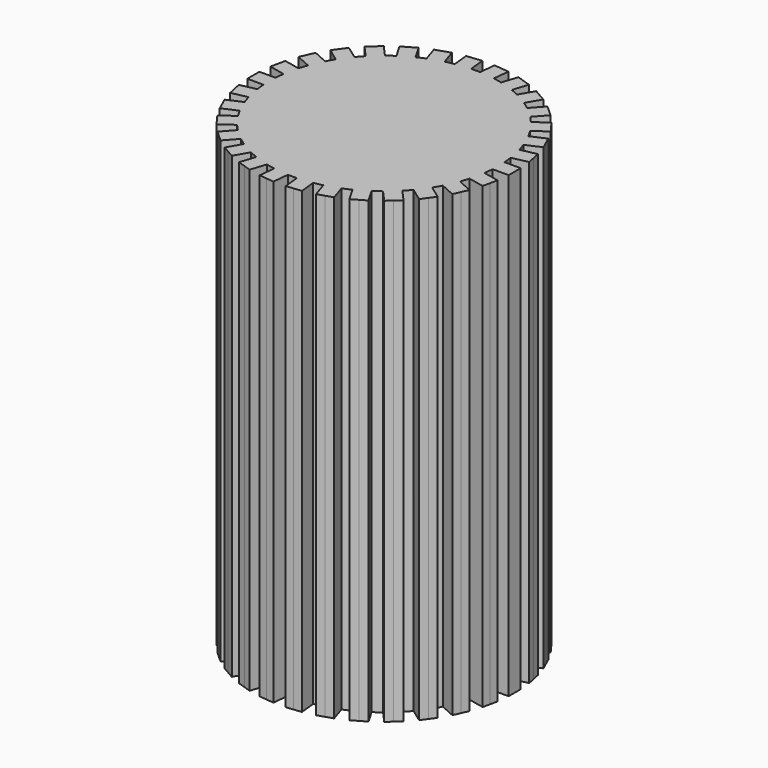
from build123d import *

# Parameters (mm, degrees)
F1_DEPTH = 15.24
F2_R     = 3.2418849927
F3_DEPTH = 2.54
F4_DEPTH = 5.08


with BuildPart() as f1:
    # F0 (on Top) → F1 (new body)
    with BuildSketch(Plane.XY):
        with BuildLine():
            Line((-5.7853078669, -0.3385389282), (-5.0687070732, -0.3385389282))
            ThreePointArc((-5.0687070732, -0.3385389282), (-5.0517206407, -0.5352742924), (-5.0271010834, -0.7312008597))
            Line((-5.0271010834, -0.7312008597), (-5.7274897797, -0.8800730728))
            Line((-5.7274897797, -0.8800730728), (-5.6588850095, -1.2028331405))
            Line((-5.6588850095, -1.2028331405), (-5.5884988085, -1.5339741809))
            Line((-5.5884988085, -1.5339741809), (-4.8875574615, -1.3849844982))
            ThreePointArc((-4.8875574615, -1.3849844982), (-4.8300386411, -1.5738890448), (-4.7652216563, -1.7604154527))
            Line((-4.7652216563, -1.7604154527), (-5.4193529056, -2.0516534489))
            Line((-5.4193529056, -2.0516534489), (-5.2851417228, -2.3530967009))
            Line((-5.2851417228, -2.3530967009), (-5.1474455356, -2.662367401))
            Line((-5.1474455356, -2.662367401), (-4.4927981357, -2.3708995998))
            ThreePointArc((-4.4927981357, -2.3708995998), (-4.3972607758, -2.5437172935), (-4.2950791768, -2.7126914431))
            Line((-4.2950791768, -2.7126914431), (-4.8743643046, -3.1335667243))
            Line((-4.8743643046, -3.1335667243), (-4.680412382, -3.4005186441))
            Line((-4.680412382, -3.4005186441), (-4.4814241927, -3.6744023903))
            Line((-4.4814241927, -3.6744023903), (-3.9016819724, -3.253195012))
            ThreePointArc((-3.9016819724, -3.253195012), (-3.7723015142, -3.4023728905), (-3.6372211271, -3.5464098004))
            Line((-3.6372211271, -3.5464098004), (-4.1163425937, -4.0785280974))
            Line((-4.1163425937, -4.0785280974), (-3.8711265609, -4.2993216051))
            Line((-3.8711265609, -4.2993216051), (-3.6195431082, -4.5258483633))
            Line((-3.6195431082, -4.5258483633), (-3.1400435847, -3.9933101916))
            ThreePointArc((-3.1400435847, -3.9933101916), (-2.9824745749, -4.1123284657), (-2.8203990609, -4.2251330319))
            Line((-2.8203990609, -4.2251330319), (-3.1784169591, -4.8452382216))
            Line((-3.1784169591, -4.8452382216), (-2.8926539334, -5.0102235814))
            Line((-2.8926539334, -5.0102235814), (-2.5994706214, -5.1794930455))
            Line((-2.5994706214, -5.1794930455), (-2.2411702246, -4.5588985538))
            ThreePointArc((-2.2411702246, -4.5588985538), (-2.0622991852, -4.6425555539), (-1.8803120219, -4.7191976755))
            Line((-1.8803120219, -4.7191976755), (-2.1015792516, -5.4001881856))
            Line((-2.1015792516, -5.4001881856), (-1.7877584486, -5.5021547456))
            Line((-1.7877584486, -5.5021547456), (-1.4657887949, -5.6067690276))
            Line((-1.4657887949, -5.6067690276), (-1.2443469715, -4.9252411732))
            ThreePointArc((-1.2443469715, -4.9252411732), (-1.0519914251, -4.9698806869), (-0.8580463249, -5.0070107354))
            Line((-0.8580463249, -5.0070107354), (-0.9328924463, -5.7191240128))
            Line((-0.9328924463, -5.7191240128), (-0.6047293409, -5.753615345))
            Line((-0.6047293409, -5.753615345), (-0.2680449643, -5.789002299))
            Line((-0.2680449643, -5.789002299), (-0.1931397846, -5.0763271194))
            ThreePointArc((-0.1931397846, -5.0763271194), (0.0042934083, -5.0799981857), (0.201720114, -5.0759933999))
            Line((0.201720114, -5.0759933999), (0.2765662354, -5.7881066773))
            Line((0.2765662354, -5.7881066773), (0.6047293409, -5.753615345))
            Line((0.6047293409, -5.753615345), (0.9414137174, -5.7182283911))
            Line((0.9414137174, -5.7182283911), (0.8665085376, -5.0055532116))
            ThreePointArc((0.8665085376, -5.0055532116), (1.0603905992, -4.9680953873), (1.2526704158, -4.9231307955))
            Line((1.2526704158, -4.9231307955), (1.4739376455, -5.6041213055))
            Line((1.4739376455, -5.6041213055), (1.7877584486, -5.5021547456))
            Line((1.7877584486, -5.5021547456), (2.1097281022, -5.3975404635))
            Line((2.1097281022, -5.3975404635), (1.8882862788, -4.7160126091))
            ThreePointArc((1.8882862788, -4.7160126091), (2.0701436326, -4.6390629809), (2.2488730096, -4.5551037515))
            Line((2.2488730096, -4.5551037515), (2.6068909078, -5.1752089412))
            Line((2.6068909078, -5.1752089412), (2.8926539334, -5.0102235814))
            Line((2.8926539334, -5.0102235814), (3.1858372454, -4.8409541173))
            Line((3.1858372454, -4.8409541173), (2.8275368486, -4.2203596257))
            ThreePointArc((2.8275368486, -4.2203596257), (2.9894214555, -4.1072812615), (3.1467890615, -3.9879968158))
            Line((3.1467890615, -3.9879968158), (3.6259105281, -4.5201151127))
            Line((3.6259105281, -4.5201151127), (3.8711265609, -4.2993216051))
            Line((3.8711265609, -4.2993216051), (4.1227100136, -4.0727948468))
            Line((4.1227100136, -4.0727948468), (3.6432104901, -3.540256675))
            ThreePointArc((3.6432104901, -3.540256675), (3.7780472161, -3.3959916421), (3.9071753314, -3.2465952826))
            Line((3.9071753314, -3.2465952826), (4.4864604593, -3.6674705639))
            Line((4.4864604593, -3.6674705639), (4.680412382, -3.4005186441))
            Line((4.680412382, -3.4005186441), (4.8794005713, -3.126634898))
            Line((4.8794005713, -3.126634898), (4.2996583511, -2.7054275197))
            ThreePointArc((4.2996583511, -2.7054275197), (4.4015541842, -2.5362808922), (4.4967992907, -2.3633019568))
            Line((4.4967992907, -2.3633019568), (5.15093054, -2.654539953))
            Line((5.15093054, -2.654539953), (5.2851417228, -2.3530967009))
            Line((5.2851417228, -2.3530967009), (5.42283791, -2.0438260008))
            Line((5.42283791, -2.0438260008), (4.7681905101, -1.7523581996))
            ThreePointArc((4.7681905101, -1.7523581996), (4.8326921134, -1.5657224968), (4.8898915429, -1.376720995))
            Line((4.8898915429, -1.376720995), (5.5902802393, -1.5255932082))
            Line((5.5902802393, -1.5255932082), (5.6588850095, -1.2028331405))
            Line((5.6588850095, -1.2028331405), (5.7292712104, -0.8716921001))
            Line((5.7292712104, -0.8716921001), (5.0283298635, -0.7227024175))
            ThreePointArc((5.0283298635, -0.7227024175), (5.0526182075, -0.5267345152), (5.0692720704, -0.3299707196))
            Line((5.0692720704, -0.3299707196), (5.7853078669, -0.3299707196))
            Line((5.7853078669, -0.3299707196), (5.7853078669, 0))
            Line((5.7853078669, 0), (5.7853078669, 0.3385389282))
            Line((5.7853078669, 0.3385389282), (5.0687070732, 0.3385389282))
            ThreePointArc((5.0687070732, 0.3385389282), (5.0517206407, 0.5352742924), (5.0271010834, 0.7312008597))
            Line((5.0271010834, 0.7312008597), (5.7274897797, 0.8800730728))
            Line((5.7274897797, 0.8800730728), (5.6588850095, 1.2028331405))
            Line((5.6588850095, 1.2028331405), (5.5884988085, 1.5339741809))
            Line((5.5884988085, 1.5339741809), (4.8875574615, 1.3849844982))
            ThreePointArc((4.8875574615, 1.3849844982), (4.8300386411, 1.5738890448), (4.7652216563, 1.7604154527))
            Line((4.7652216563, 1.7604154527), (5.4193529056, 2.0516534489))
            Line((5.4193529056, 2.0516534489), (5.2851417228, 2.3530967009))
            Line((5.2851417228, 2.3530967009), (5.1474455356, 2.662367401))
            Line((5.1474455356, 2.662367401), (4.4927981357, 2.3708995998))
            ThreePointArc((4.4927981357, 2.3708995998), (4.3972607758, 2.5437172935), (4.2950791768, 2.7126914431))
            Line((4.2950791768, 2.7126914431), (4.8743643046, 3.1335667243))
            Line((4.8743643046, 3.1335667243), (4.680412382, 3.4005186441))
            Line((4.680412382, 3.4005186441), (4.4814241927, 3.6744023903))
            Line((4.4814241927, 3.6744023903), (3.9016819724, 3.253195012))
            ThreePointArc((3.9016819724, 3.253195012), (3.7723015142, 3.4023728905), (3.6372211271, 3.5464098004))
            Line((3.6372211271, 3.5464098004), (4.1163425937, 4.0785280974))
            Line((4.1163425937, 4.0785280974), (3.8711265609, 4.2993216051))
            Line((3.8711265609, 4.2993216051), (3.6195431082, 4.5258483633))
            Line((3.6195431082, 4.5258483633), (3.1400435847, 3.9933101916))
            ThreePointArc((3.1400435847, 3.9933101916), (2.9824745749, 4.1123284657), (2.8203990609, 4.2251330319))
            Line((2.8203990609, 4.2251330319), (3.1784169591, 4.8452382216))
            Line((3.1784169591, 4.8452382216), (2.8926539334, 5.0102235814))
            Line((2.8926539334, 5.0102235814), (2.5994706214, 5.1794930455))
            Line((2.5994706214, 5.1794930455), (2.2411702246, 4.5588985538))
            ThreePointArc((2.2411702246, 4.5588985538), (2.0622991852, 4.6425555539), (1.8803120219, 4.7191976755))
            Line((1.8803120219, 4.7191976755), (2.1015792516, 5.4001881856))
            Line((2.1015792516, 5.4001881856), (1.7877584486, 5.5021547456))
            Line((1.7877584486, 5.5021547456), (1.4657887949, 5.6067690276))
            Line((1.4657887949, 5.6067690276), (1.2443469715, 4.9252411732))
            ThreePointArc((1.2443469715, 4.9252411732), (1.0519914251, 4.9698806869), (0.8580463249, 5.0070107354))
            Line((0.8580463249, 5.0070107354), (0.9328924463, 5.7191240128))
            Line((0.9328924463, 5.7191240128), (0.6047293409, 5.753615345))
            Line((0.6047293409, 5.753615345), (0.2680449643, 5.789002299))
            Line((0.2680449643, 5.789002299), (0.1931397846, 5.0763271194))
            ThreePointArc((0.1931397846, 5.0763271194), (-0.0042934083, 5.0799981857), (-0.201720114, 5.0759933999))
            Line((-0.201720114, 5.0759933999), (-0.2765662354, 5.7881066773))
            Line((-0.2765662354, 5.7881066773), (-0.6047293409, 5.753615345))
            Line((-0.6047293409, 5.753615345), (-0.9414137174, 5.7182283911))
            Line((-0.9414137174, 5.7182283911), (-0.8665085376, 5.0055532116))
            ThreePointArc((-0.8665085376, 5.0055532116), (-1.0603905992, 4.9680953873), (-1.2526704158, 4.9231307955))
            Line((-1.2526704158, 4.9231307955), (-1.4739376455, 5.6041213055))
            Line((-1.4739376455, 5.6041213055), (-1.7877584486, 5.5021547456))
            Line((-1.7877584486, 5.5021547456), (-2.1097281022, 5.3975404635))
            Line((-2.1097281022, 5.3975404635), (-1.8882862788, 4.7160126091))
            ThreePointArc((-1.8882862788, 4.7160126091), (-2.0701436326, 4.6390629809), (-2.2488730096, 4.5551037515))
            Line((-2.2488730096, 4.5551037515), (-2.6068909078, 5.1752089412))
            Line((-2.6068909078, 5.1752089412), (-2.8926539334, 5.0102235814))
            Line((-2.8926539334, 5.0102235814), (-3.1858372454, 4.8409541173))
            Line((-3.1858372454, 4.8409541173), (-2.8275368486, 4.2203596257))
            ThreePointArc((-2.8275368486, 4.2203596257), (-2.9894214555, 4.1072812615), (-3.1467890615, 3.9879968158))
            Line((-3.1467890615, 3.9879968158), (-3.6259105281, 4.5201151127))
            Line((-3.6259105281, 4.5201151127), (-3.8711265609, 4.2993216051))
            Line((-3.8711265609, 4.2993216051), (-4.1227100136, 4.0727948468))
            Line((-4.1227100136, 4.0727948468), (-3.6432104901, 3.540256675))
            ThreePointArc((-3.6432104901, 3.540256675), (-3.7780472161, 3.3959916421), (-3.9071753314, 3.2465952826))
            Line((-3.9071753314, 3.2465952826), (-4.4864604593, 3.6674705639))
            Line((-4.4864604593, 3.6674705639), (-4.680412382, 3.4005186441))
            Line((-4.680412382, 3.4005186441), (-4.8794005713, 3.126634898))
            Line((-4.8794005713, 3.126634898), (-4.2996583511, 2.7054275197))
            ThreePointArc((-4.2996583511, 2.7054275197), (-4.4015541842, 2.5362808922), (-4.4967992907, 2.3633019568))
            Line((-4.4967992907, 2.3633019568), (-5.15093054, 2.654539953))
            Line((-5.15093054, 2.654539953), (-5.2851417228, 2.3530967009))
            Line((-5.2851417228, 2.3530967009), (-5.42283791, 2.0438260008))
            Line((-5.42283791, 2.0438260008), (-4.7681905101, 1.7523581996))
            ThreePointArc((-4.7681905101, 1.7523581996), (-4.8326921134, 1.5657224968), (-4.8898915429, 1.376720995))
            Line((-4.8898915429, 1.376720995), (-5.5902802393, 1.5255932082))
            Line((-5.5902802393, 1.5255932082), (-5.6588850095, 1.2028331405))
            Line((-5.6588850095, 1.2028331405), (-5.7292712104, 0.8716921001))
            Line((-5.7292712104, 0.8716921001), (-5.0283298635, 0.7227024175))
            ThreePointArc((-5.0283298635, 0.7227024175), (-5.0526182075, 0.5267345152), (-5.0692720704, 0.3299707196))
            Line((-5.0692720704, 0.3299707196), (-5.7853078669, 0.3299707196))
            Line((-5.7853078669, 0.3299707196), (-5.7853078669, 0))
            Line((-5.7853078669, 0), (-5.7853078669, -0.3385389282))
        make_face()
        with BuildLine():
            ThreePointArc((-1.8415, 2.6639744744), (3.2385, 0), (-1.8415, -2.6639744744))
            Line((-1.8415, -2.6639744744), (-1.8415, -0.0313845832))
            Line((-1.8415, -0.0313845832), (-1.8415, 2.6639744744))
        make_face(mode=Mode.SUBTRACT)
    extrude(amount=F1_DEPTH)

    # F2 (on face) → F3 (join)
    with BuildSketch(Plane.XY.offset(15.24)):
        Circle(F2_R)
    extrude(amount=-F3_DEPTH)

    # F4 (add): a face of the model
    f4_faces = [f1.faces().sort_by_distance(p)[0] for p in [
        (-5.2741180144, 1.2910485494, 0),
    ]]
    extrude(f4_faces, amount=F4_DEPTH)


solid = f1.part
